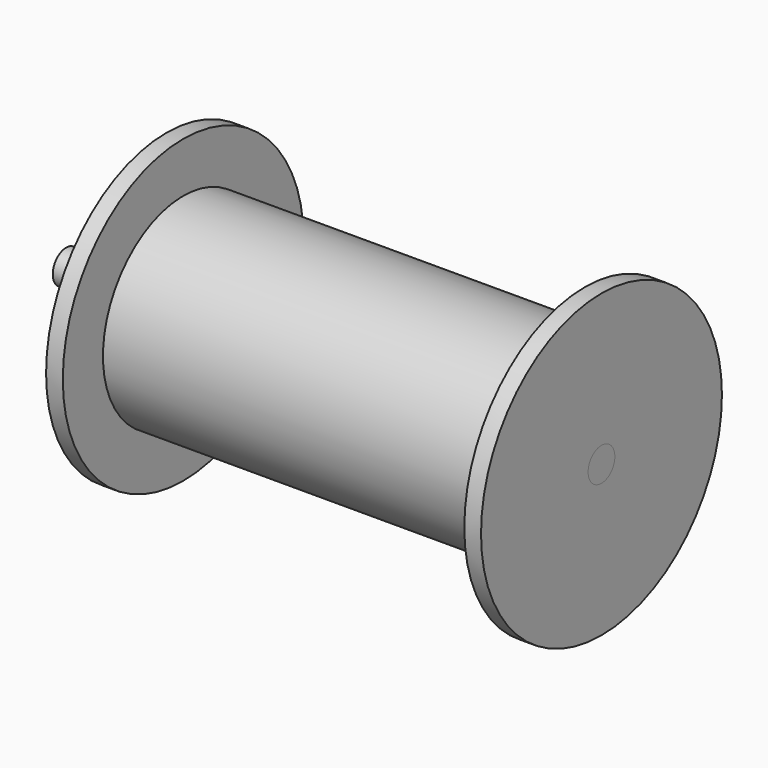
from build123d import *

# Parameters (mm, degrees)
F0_R     = 19.05
F1_DEPTH = 38.1
F2_R     = 28.575
F3_DEPTH = 3.175
F5_R     = 3.175
F6_DEPTH = 101.6


with BuildPart() as f1:
    # F0 (on Right) → F1 (new body)
    with BuildSketch(Plane.YZ):
        Circle(F0_R)
    extrude(amount=F1_DEPTH)

    # F2 (on face) → F3 (join)
    with BuildSketch(Plane.YZ.offset(38.1)):
        Circle(F2_R)
    extrude(amount=F3_DEPTH)

    # F4: F1 across plane


with BuildPart() as f1_1:
    add(f1.part)
    add(f1.part.mirror(Plane.YZ))


with BuildPart() as f6:
    # F5 (on face) → F6 (new body)
    with BuildSketch(Plane.YZ.offset(41.275)):
        Circle(F5_R)
    extrude(amount=-F6_DEPTH)


with BuildPart() as f1_2:
    add(f1_1.part)

    # F7: cut F6
    add(f6.part, mode=Mode.SUBTRACT)


solid = Compound([f6.part, f1_2.part])
